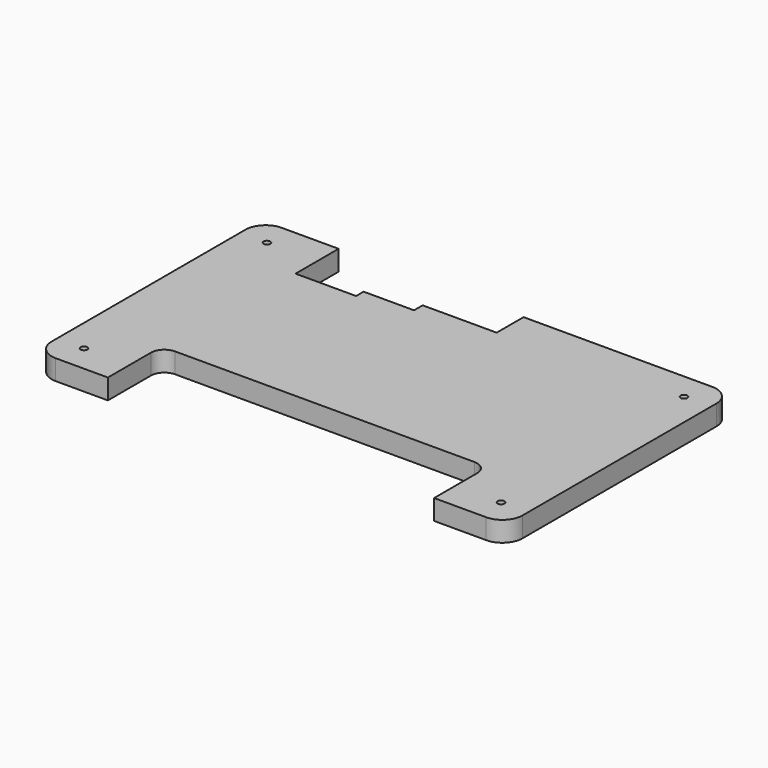
from build123d import *

# Parameters (mm, degrees)
F1_DEPTH = 3
F3_DEPTH = 3.001
F5_DEPTH = 3.001
F7_D     = 1


with BuildPart() as f1:
    # F0 (on Top) → F1 (new body)
    with BuildSketch(Plane.XY):
        with BuildLine():
            ThreePointArc((0, 3), (0.87868, 0.87868), (3, 0))
            Line((3, 0), (67, 0))
            ThreePointArc((67, 0), (69.12132, 0.87868), (70, 3))
            Line((70, 3), (70, 39))
            ThreePointArc((70, 39), (69.12132, 41.12132), (67, 42))
            Line((67, 42), (3, 42))
            ThreePointArc((3, 42), (0.87868, 41.12132), (0, 39))
            Line((0, 39), (0, 3))
        make_face()
    extrude(amount=F1_DEPTH)

    # F2 (on face) → F3 (cut, through all)
    with BuildSketch(Plane.XY.offset(3)):
        with BuildLine():
            Line((57.25, 10), (12.75, 10))
            ThreePointArc((12.75, 10), (11.335786, 9.414214), (10.75, 8))
            Line((10.75, 8), (10.75, 0))
            Line((10.75, 0), (59.25, 0))
            Line((59.25, 0), (59.25, 8))
            ThreePointArc((59.25, 8), (58.664214, 9.414214), (57.25, 10))
        make_face()
    extrude(amount=-F3_DEPTH, mode=Mode.SUBTRACT)

    # F4 (on face) → F5 (cut, through all)
    with BuildSketch(Plane.XY.offset(3)):
        Polygon((38.95, 37), (38.95, 42), (18.4, 42), (11.45, 42), (11.45, 34), (20.45, 34), (20.45, 35.4), (27.95, 35.4), (27.95, 37), align=None)
    extrude(amount=-F5_DEPTH, mode=Mode.SUBTRACT)

    # F7 (through all)
    with Locations(Plane.XY.offset(3)):
        with Locations((4, 38), (66, 38), (66, 4), (4, 4)):
            Hole(F7_D / 2)


solid = f1.part
